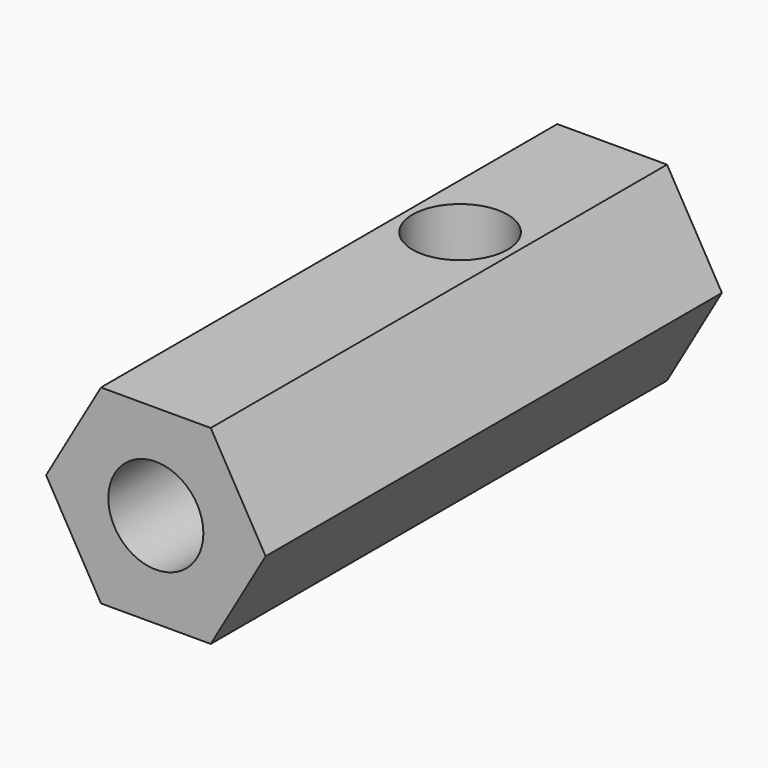
from build123d import *

# Parameters (mm, degrees)
F1_DEPTH = 19.05
F2_R     = 1.5875
F3_DEPTH = 6.351
F4_R     = 1.5875
F5_DEPTH = 19.051


with BuildPart() as f1:
    # F0 (on Front) → F1 (new body)
    with BuildSketch(Plane.XZ):
        Polygon((1.833087, 3.175), (-1.833087, 3.175), (-3.666174, 0), (-1.833087, -3.175), (1.833087, -3.175), (3.666174, 0), align=None)
    extrude(amount=F1_DEPTH)

    # F2 (on face) → F3 (cut, through all)
    with BuildSketch(Plane.XY.offset(3.175)):
        with Locations((0, -6.35)):
            Circle(F2_R)
    extrude(amount=-F3_DEPTH, mode=Mode.SUBTRACT)

    # F4 (on face) → F5 (cut, through all)
    with BuildSketch(Plane.XZ.offset(19.05)):
        Circle(F4_R)
    extrude(amount=-F5_DEPTH, mode=Mode.SUBTRACT)


solid = f1.part
